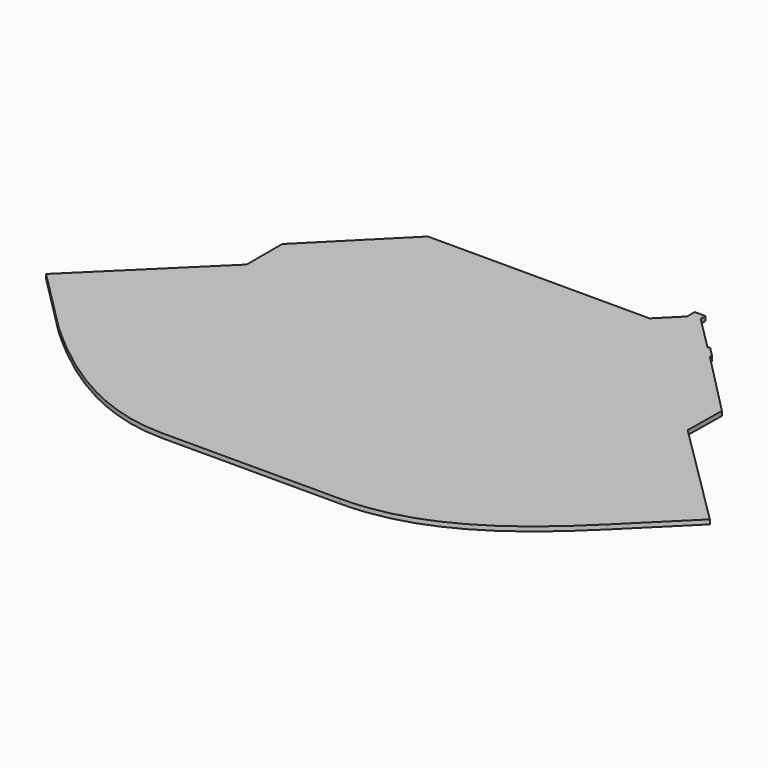
from build123d import *

# Parameters (mm, degrees)
F1_DEPTH = 2.54


with BuildPart() as f1:
    # F0 (on Top) → F1 (new body)
    with BuildSketch(Plane.XY):
        with BuildLine():
            add(Edge.make_bspline(
                [(157.0761654, -64.7966192), (117.6850834, -104.347772), (84.4032856, -119.8358538), (48.482758, -119.8697628)],
                knots=[0, 0, 0, 0, 1, 1, 1, 1], degree=3))
            Line((157.0761654, -64.7966192), (189.796293, -32.3241924))
            Line((189.796293, -32.3241924), (128.1432032, 28.9115246))
            Line((128.1432032, 28.9115246), (128.5025116, 52.916963))
            Line((128.5025116, 52.916963), (91.4054814, 90.6554194))
            Line((91.4054814, 90.6554194), (92.1538416, 91.4037796))
            Line((92.1538416, 91.4037796), (86.0422714, 97.5153244))
            Line((86.0422714, 97.5153244), (85.258275, 96.7313534))
            Line((85.258275, 96.7313534), (65.4803364, 116.509292))
            Line((65.4803364, 116.509292), (65.4803364, 119.965978))
            Line((65.4803364, 119.965978), (59.3097366, 119.965978))
            Line((59.3097366, 119.965978), (59.3097366, 114.4836166))
            Line((59.3097366, 114.4836166), (47.41291, 102.5868154))
            Line((47.41291, 102.5868154), (-79.326486, 102.5868154))
            Line((-79.326486, 102.5868154), (-125.5794542, 56.265318))
            Line((-125.5794542, 56.265318), (-125.575568, 30.8613048))
            Line((-125.575568, 30.8613048), (-189.7963184, -32.174307))
            Line((-189.7963184, -32.174307), (-153.4240772, -68.7088542))
            add(Edge.make_bspline(
                [(-53.4225754, -119.9659526), (-93.7288702, -120.0040018), (-130.1742634, -90.0518138), (-153.4240772, -68.7088542)],
                knots=[0, 0, 0, 0, 1, 1, 1, 1], degree=3))
            Line((-53.4225754, -119.9659526), (48.482758, -119.8697628))
        make_face()
    extrude(amount=F1_DEPTH)


solid = f1.part
